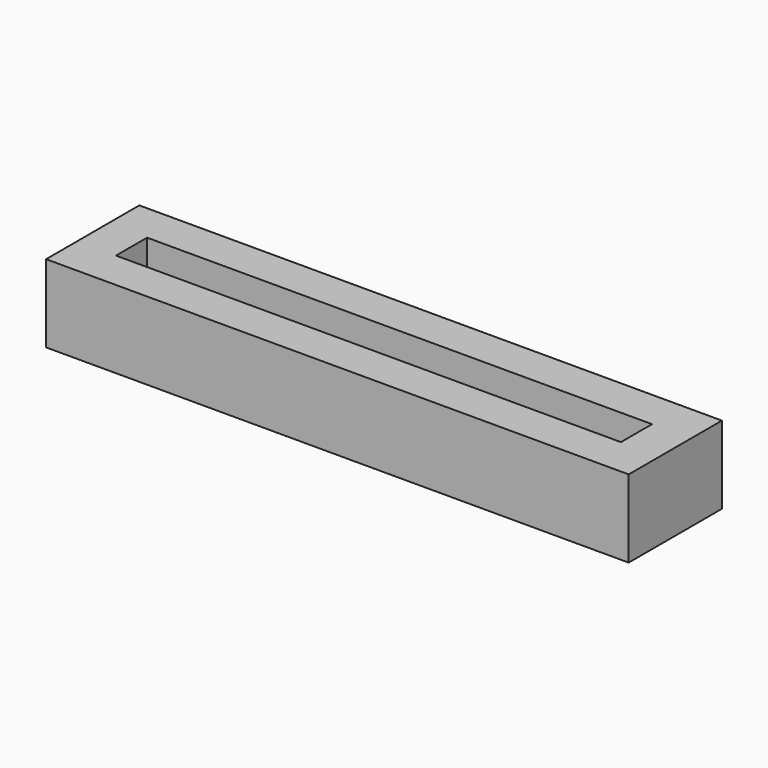
from build123d import *

# Parameters (mm, degrees)
F0_W     = 381
F0_H     = 76.2
F1_DEPTH = 50.8
F2_W     = 330.2
F2_H     = 25.4
F3_DEPTH = 25.4
F5_D     = 3.175


with BuildPart() as f1:
    # F0 (on Top) → F1 (new body)
    with BuildSketch(Plane.XY):
        Rectangle(F0_W, F0_H)
    extrude(amount=F1_DEPTH)

    # F2 (on face) → F3 (cut)
    with BuildSketch(Plane.XY.offset(50.8)):
        Rectangle(F2_W, F2_H)
    extrude(amount=-F3_DEPTH, mode=Mode.SUBTRACT)

    # F5 (through all)
    with Locations(Plane(origin=(0, 0, 0), x_dir=(1, 0, 0), z_dir=(0, 0, -1))):
        with Locations((-76.2, 0), (76.2, 0)):
            Hole(F5_D / 2)


solid = f1.part
